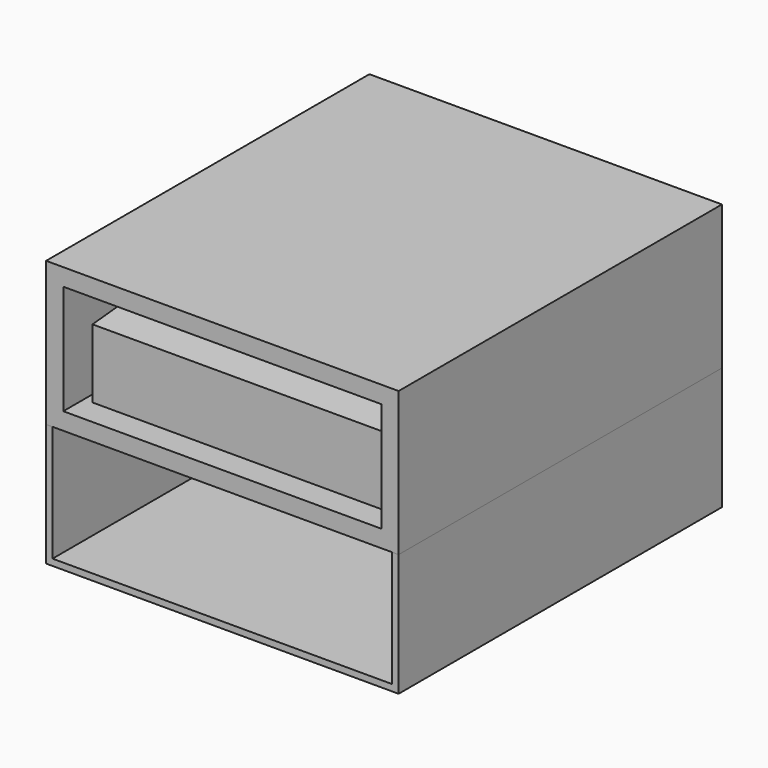
from build123d import *

# Parameters (mm, degrees)
F1_DEPTH      = 222.25
F1_DEPTH_BACK = 222.25
F2_W          = 469.9
F2_H          = 571.5
F2_W_2        = 444.5
F2_H_2        = 495.3
F3_DEPTH      = 25.4
F4_W          = 571.5
F4_H          = 161.925
F4_H_2        = 25.4
F5_DEPTH      = 25.4
F6_W          = 571.5
F6_H          = 161.925
F6_H_2        = 25.4
F7_DEPTH      = 25.4
F8_W          = 469.9
F8_H          = 161.925
F9_DEPTH      = 25.4
F10_W         = 469.9
F10_H         = 571.5
F11_DEPTH     = 25.4
F12_W         = 501.65
F12_H         = 9.525
F13_DEPTH     = 171.45
F14_W         = 501.65
F14_H         = 587.375
F15_DEPTH     = 9.525


with BuildPart() as f1:
    # F0 (on Right) → F1 (new body, two sides)
    with BuildSketch(Plane.YZ) as f1_sk:
        Polygon((-495.3, 0), (0, 0), (0, 149.225), (-495.3, 101.6), align=None)
    extrude(amount=F1_DEPTH)
    extrude(f1_sk.sketch, amount=-F1_DEPTH_BACK)


with BuildPart() as f3:
    # F2 (on face) → F3 (new body)
    with BuildSketch(Plane(origin=(0, 0, 0), x_dir=(1, 0, 0), z_dir=(0, 0, -1))):
        with Locations((0, 247.65)):
            Rectangle(F2_W, F2_H)
        with Locations((0, 247.65)):
            Rectangle(F2_W_2, F2_H_2, mode=Mode.SUBTRACT)
        with Locations((0, 247.65)):
            Rectangle(F2_W_2, F2_H_2)
    extrude(amount=F3_DEPTH)

    # F4 (on face) → F5 (join)
    with BuildSketch(Plane.YZ.offset(234.95)):
        with Locations((-247.65, 80.9625)):
            Rectangle(F4_W, F4_H)
        with Locations((-247.65, -12.7)):
            Rectangle(F4_W, F4_H_2)
    extrude(amount=F5_DEPTH)

    # F6 (on face) → F7 (join)
    with BuildSketch(Plane(origin=(-234.95, 0, 0), x_dir=(0, -1, 0), z_dir=(-1, 0, 0))):
        with Locations((247.65, 80.9625)):
            Rectangle(F6_W, F6_H)
        with Locations((247.65, -12.7)):
            Rectangle(F6_W, F6_H_2)
    extrude(amount=F7_DEPTH)

    # F8 (on face) → F9 (join)
    with BuildSketch(Plane(origin=(0, 38.1, 0), x_dir=(-1, 0, 0), z_dir=(0, 1, 0))):
        with Locations((0, 80.9625)):
            Rectangle(F8_W, F8_H)
        Polygon((-260.35, 161.925), (-260.35, -25.4), (260.35, -25.4), (260.35, 161.925), (234.95, 161.925), (234.95, 0), (-234.95, 0), (-234.95, 161.925), align=None)
    extrude(amount=F9_DEPTH)

    # F10 (on face) → F11 (join)
    with BuildSketch(Plane.XY.offset(161.925)):
        Polygon((234.95, -533.4), (260.35, -533.4), (260.35, 63.5), (-260.35, 63.5), (-260.35, -533.4), (-234.95, -533.4), (-234.95, 38.1), (234.95, 38.1), align=None)
        with Locations((0, -247.65)):
            Rectangle(F10_W, F10_H)
    extrude(amount=F11_DEPTH)


with BuildPart() as f13:
    # F12 (on face) → F13 (new body)
    with BuildSketch(Plane(origin=(0, 0, -25.4), x_dir=(1, 0, 0), z_dir=(0, 0, -1))):
        Polygon((260.35, -63.5), (260.35, 533.4), (250.825, 533.4), (250.825, 523.875), (250.825, -53.975), (250.825, -63.5), align=None)
        with Locations((0, -58.7375)):
            Rectangle(F12_W, F12_H)
        Polygon((-250.825, 523.875), (-250.825, 533.4), (-260.35, 533.4), (-260.35, -63.5), (-250.825, -63.5), (-250.825, -53.975), align=None)
    extrude(amount=F13_DEPTH)

    # F14 (on face) → F15 (join)
    with BuildSketch(Plane(origin=(0, 0, -196.85), x_dir=(1, 0, 0), z_dir=(0, 0, -1))):
        with Locations((0, 239.7125)):
            Rectangle(F14_W, F14_H)
        Polygon((-260.35, 533.4), (-260.35, -63.5), (260.35, -63.5), (260.35, 533.4), (250.825, 533.4), (250.825, -53.975), (-250.825, -53.975), (-250.825, 533.4), align=None)
    extrude(amount=F15_DEPTH)


solid = Compound([f1.part, f3.part, f13.part])
